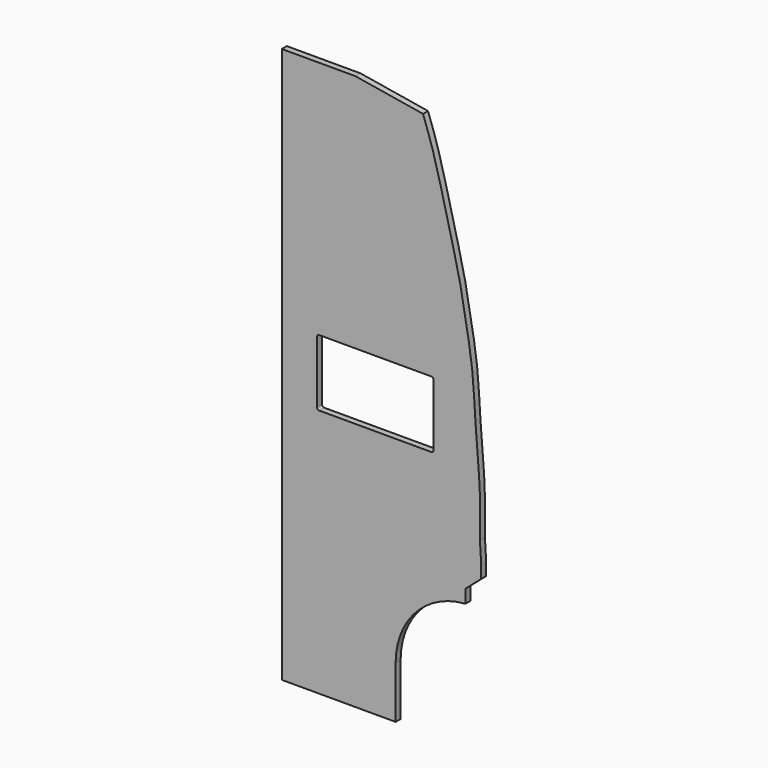
from build123d import *

# Parameters (mm, degrees)
F1_DEPTH = 15


with BuildPart() as f1:
    # F0 (on Front) → F1 (new body)
    with BuildSketch(Plane.XZ):
        with BuildLine():
            Line((177, 0), (0, 0))
            Line((0, 0), (0, -1337))
            Line((0, -1337), (274, -1337))
            Line((274, -1337), (274, -1212))
            ThreePointArc((274, -1212), (322.5253137442, -1088.8902928279), (442, -1032))
            Line((442, -1032), (442, -1000))
            Line((442, -1000), (480, -967))
            Line((480, -967), (480, -937))
            Line((480, -937), (477, -887))
            add(Edge.make_bspline(
                [(477, -887), (477.3409901345, -865.6929372181), (477.0797844675, -851.0610734518), (476.1022594588, -737.3138139423), (476.5777735361, -793.1899508202), (474.0967013355, -723.7578035301), (464.8329395432, -637.3258006514), (461.2628948716, -536.660924146), (443.9915396348, -436.9186876346), (426.5757756979, -336.5383755873), (399.3587210867, -237.3522036261), (375.4775408132, -133.8744354339), (355.455463807, -69.1251180104), (340, -27)],
                knots=[0, 0, 0, 0, 0.0728496243, 0.1620736999, 0.2013801511, 0.2662309643, 0.3694203367, 0.4725712376, 0.576170853, 0.6801132511, 0.7847115324, 0.8893098137, 1, 1, 1, 1], degree=3))
            Line((340, -27), (177, 0))
        make_face()
        with BuildLine():
            ThreePointArc((85, -582), (86.4644660941, -578.4644660941), (90, -577))
            Line((90, -577), (360, -577))
            ThreePointArc((360, -577), (363.5355339059, -578.4644660941), (365, -582))
            Line((365, -582), (365, -732))
            ThreePointArc((365, -732), (363.5355339059, -735.5355339059), (360, -737))
            Line((360, -737), (90, -737))
            ThreePointArc((90, -737), (86.4644660941, -735.5355339059), (85, -732))
            Line((85, -732), (85, -582))
        make_face(mode=Mode.SUBTRACT)
    extrude(amount=F1_DEPTH)


solid = f1.part
